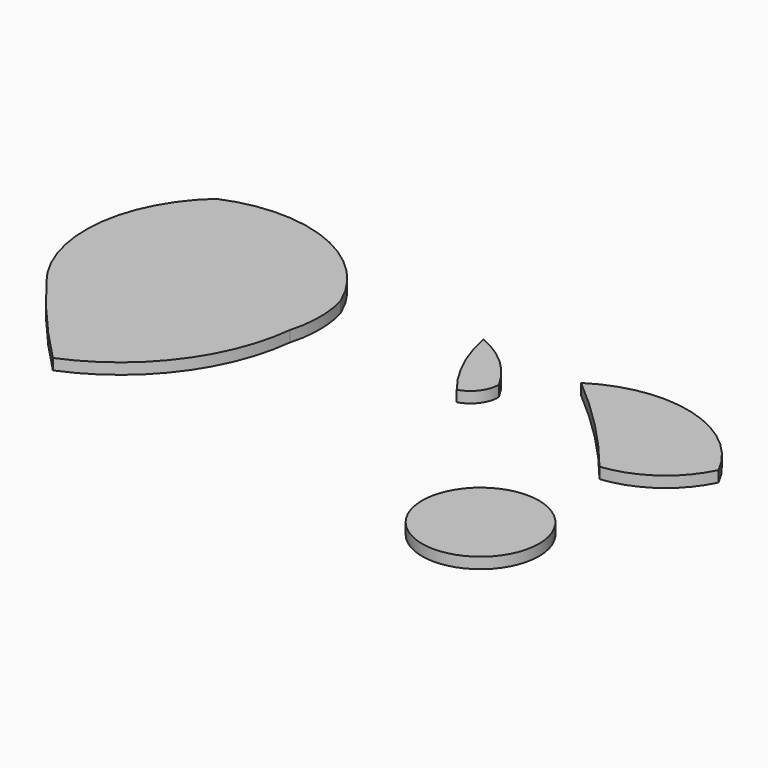
from build123d import *

# Parameters (mm, degrees)
F0_R     = 10.632353
F1_DEPTH = 2


with BuildPart() as f1:
    # F0 (on Top) → F1 (new body)
    with BuildSketch(Plane.XY):
        with BuildLine():
            ThreePointArc((29.552962, 53.842974), (15.655491, 67.495194), (-3.824626, 67.276505))
            ThreePointArc((-3.824626, 67.276505), (-12.251634, 50.337547), (-6.66779, 32.260948))
            ThreePointArc((-6.66779, 32.260948), (0.684435, 23.166075), (8.636001, 14.590264))
            ThreePointArc((8.636001, 14.590264), (22.892183, 25.593234), (29.552962, 42.324585))
            ThreePointArc((29.552962, 42.324585), (30.365814, 48.083779), (29.552962, 53.842974))
        make_face()
        with BuildLine():
            ThreePointArc((90.113752, 36.969028), (98.304724, 40.035854), (103.962928, 46.705348))
            ThreePointArc((103.962928, 46.705348), (89.926552, 58.206193), (71.993783, 55.430396))
            ThreePointArc((71.993783, 55.430396), (81.505382, 46.642975), (90.113752, 36.969028))
        make_face()
        with Locations((87.582447, 13.093072)):
            Circle(F0_R)
        with BuildLine():
            ThreePointArc((63.214978, 47.724526), (58.802262, 53.393765), (52.765941, 57.289295))
            ThreePointArc((52.765941, 57.289295), (55.249966, 49.613752), (59.520704, 42.769402))
            ThreePointArc((59.520704, 42.769402), (62.192468, 44.632166), (63.214978, 47.724526))
        make_face()
    extrude(amount=F1_DEPTH)


solid = f1.part
